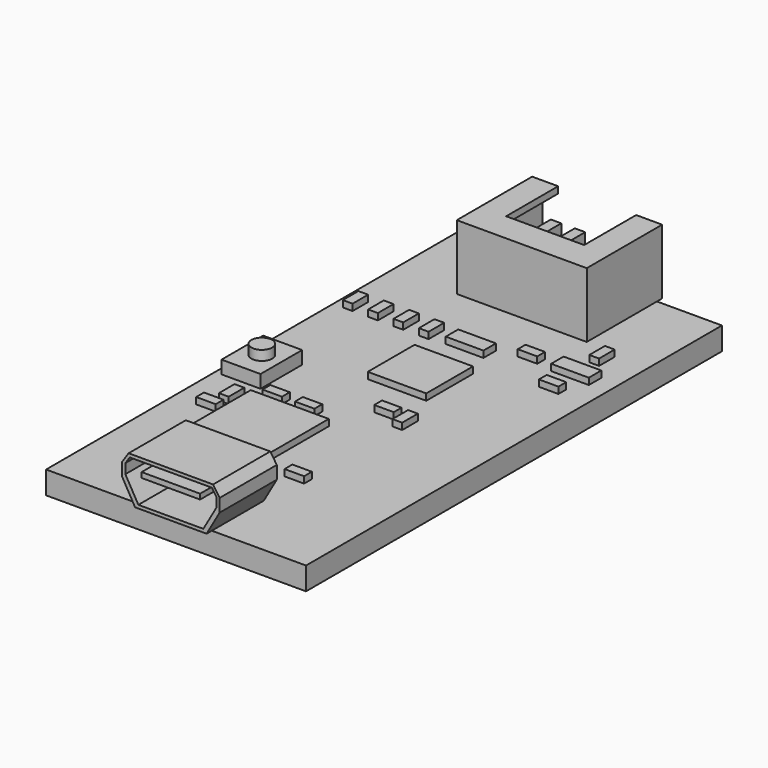
from build123d import *

# Parameters (mm, degrees)
SKETCH_W        = 20
SKETCH_H        = 40
PAD_DEPTH       = 1.75
SKETCH001_W     = 7.5
SKETCH001_H     = 5.5
PAD001_DEPTH    = 3.5
POCKET_DEPTH    = 5.5
SKETCH003_W     = 4.5
SKETCH003_H     = 0.4
POCKET001_DEPTH = 5
SKETCH004_W     = 10
SKETCH004_H     = 7.25
PAD002_DEPTH    = 5
SKETCH005_W     = 8.4
SKETCH005_H     = 4
POCKET002_DEPTH = 5
SKETCH006_W     = 0.8
SKETCH006_H     = 0.8
PAD003_DEPTH    = 4.5
SKETCH007_W     = 6
SKETCH007_H     = 6
SKETCH007_W_2   = 4.5
SKETCH007_H_2   = 4.5
SKETCH007_W_3   = 0.75
SKETCH007_H_3   = 1.5
SKETCH007_W_4   = 2.9
SKETCH007_H_4   = 1.2
SKETCH007_W_5   = 1.5
SKETCH007_H_5   = 0.75
PAD004_DEPTH    = 0.5
SKETCH008_W     = 3
SKETCH008_H     = 4
PAD005_DEPTH    = 1
SKETCH009_R     = 0.8
PAD006_DEPTH    = 0.75
SKETCH010_W     = 6
SKETCH010_H     = 5
POCKET003_DEPTH = 0.5


with BuildPart() as part:
    # Sketch → Pad (new body)
    with BuildSketch(Plane.XY):
        Rectangle(SKETCH_W, SKETCH_H)
    extrude(amount=PAD_DEPTH)

    # Sketch001 (on Face6 of Pad) → Pad001 (join)
    with BuildSketch(Plane.XY.offset(1.75)):
        with Locations((0, -17.75)):
            Rectangle(SKETCH001_W, SKETCH001_H)
    extrude(amount=PAD001_DEPTH)

    # Sketch002 (on Face11 of Pad001) → Pocket (cut)
    with BuildSketch(Plane.XZ.offset(20.5)):
        Polygon((-3.75, 5.25), (-3.75, 4.5), (-3.25, 5.25), align=None)
        Polygon((-3.75, 1.75), (-3.75, 3.5), (-2.75, 1.75), align=None)
    pocket = extrude(amount=-POCKET_DEPTH, mode=Mode.SUBTRACT)

    # Mirrored: Pocket across YZ
    add(pocket.mirror(Plane.YZ), mode=Mode.SUBTRACT)

    # Sketch003 (on Face10 of Mirrored) → Pocket001 (cut)
    with BuildSketch(Plane.XZ.offset(20.5)):
        Polygon((-3.166667, 5), (-3.5, 4.5), (-3.5, 3.75), (-2.5, 2), (2.5, 2), (3.5, 3.75), (3.5, 4.5), (3.166667, 5), align=None)
        with Locations((0, 4.1)):
            Rectangle(SKETCH003_W, SKETCH003_H, mode=Mode.SUBTRACT)
    extrude(amount=-POCKET001_DEPTH, mode=Mode.SUBTRACT)

    # Sketch004 (on Face5 of Pocket001) → Pad002 (join)
    with BuildSketch(Plane.XY.offset(1.75)):
        with Locations((0, 16.875)):
            Rectangle(SKETCH004_W, SKETCH004_H)
    extrude(amount=PAD002_DEPTH)

    # Sketch005 (on Face15 of Pad002) → Pocket002 (cut)
    with BuildSketch(Plane(origin=(0, 20.5, 0), x_dir=(-1, 0, 0), z_dir=(0, 1, 0))):
        with Locations((0, 4.25)):
            Rectangle(SKETCH005_W, SKETCH005_H)
    extrude(amount=-POCKET002_DEPTH, mode=Mode.SUBTRACT)

    # Sketch006 (on Face35 of Pocket002) → Pad003 (join)
    with BuildSketch(Plane(origin=(0, 15.5, 0), x_dir=(-1, 0, 0), z_dir=(0, 1, 0))):
        with Locations((-2.76, 4.25)):
            Rectangle(SKETCH006_W, SKETCH006_H)
        with Locations((-0.92, 4.25)):
            Rectangle(SKETCH006_W, SKETCH006_H)
        with Locations((0.92, 4.25)):
            Rectangle(SKETCH006_W, SKETCH006_H)
        with Locations((2.76, 4.25)):
            Rectangle(SKETCH006_W, SKETCH006_H)
    extrude(amount=PAD003_DEPTH)

    # Sketch007 (on Face5 of Pad003) → Pad004 (join)
    with BuildSketch(Plane.XY.offset(1.75)):
        with Locations((-3.25, -8)):
            Rectangle(SKETCH007_W, SKETCH007_H)
        with Locations((0, 3.5)):
            Rectangle(SKETCH007_W_2, SKETCH007_H_2)
        with Locations((-8.875, 8.35)):
            Rectangle(SKETCH007_W_3, SKETCH007_H_3)
        with Locations((-6.925, 8.35)):
            Rectangle(SKETCH007_W_3, SKETCH007_H_3)
        with Locations((-4.975, 8.35)):
            Rectangle(SKETCH007_W_3, SKETCH007_H_3)
        with Locations((-3.025, 8.35)):
            Rectangle(SKETCH007_W_3, SKETCH007_H_3)
        with Locations((0, 8.35)):
            Rectangle(SKETCH007_W_4, SKETCH007_H_4)
        with Locations((3.7, 9.55)):
            Rectangle(SKETCH007_W_5, SKETCH007_H_5)
        with Locations((7.15, 9.55)):
            Rectangle(SKETCH007_W_4, SKETCH007_H_4)
        with Locations((7.15, 12.03)):
            Rectangle(SKETCH007_W_3, SKETCH007_H_3)
        with Locations((7.15, 7.275)):
            Rectangle(SKETCH007_W_5, SKETCH007_H_5)
        with Locations((-5, -4.125)):
            Rectangle(SKETCH007_W_5, SKETCH007_H_5)
        with Locations((-2.5, -4.125)):
            Rectangle(SKETCH007_W_5, SKETCH007_H_5)
        with Locations((2.5, -11.375)):
            Rectangle(SKETCH007_W_5, SKETCH007_H_5)
        with Locations((-7.125, -5.75)):
            Rectangle(SKETCH007_W_3, SKETCH007_H_3)
        with Locations((-7.5, -7.375)):
            Rectangle(SKETCH007_W_5, SKETCH007_H_5)
        with Locations((1.5, -1.5)):
            Rectangle(SKETCH007_W_5, SKETCH007_H_5)
        with Locations((3.125, -1.875)):
            Rectangle(SKETCH007_W_3, SKETCH007_H_3)
    extrude(amount=PAD004_DEPTH)

    # Sketch008 (on Face5 of Pad004) → Pad005 (join)
    with BuildSketch(Plane.XY.offset(1.75)):
        with Locations((-8, -1.75)):
            Rectangle(SKETCH008_W, SKETCH008_H)
    extrude(amount=PAD005_DEPTH)

    # Sketch009 (on Face103 of Pad005) → Pad006 (join)
    with BuildSketch(Plane.XY.offset(2.75)):
        with Locations((-8, -1.75)):
            Circle(SKETCH009_R)
    extrude(amount=PAD006_DEPTH)

    # Sketch010 (on Face94 of Pad006) → Pocket003 (cut)
    with BuildSketch(Plane.XY.offset(6.75)):
        with Locations((0, 18)):
            Rectangle(SKETCH010_W, SKETCH010_H)
    extrude(amount=-POCKET003_DEPTH, mode=Mode.SUBTRACT)


solid = part.part
